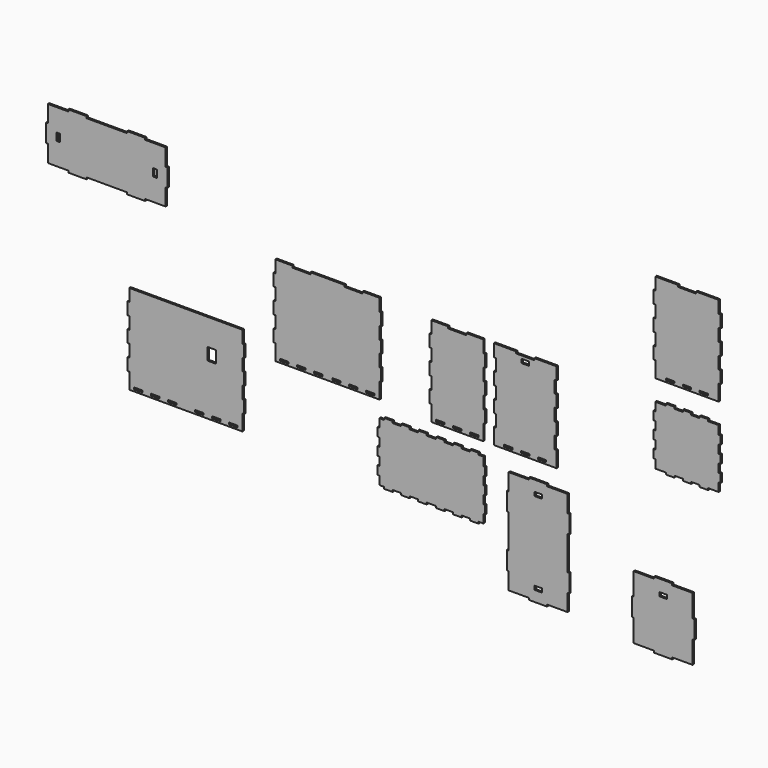
from build123d import *

# Parameters (mm, degrees)
F0_W     = 18.714285
F0_H     = 4
F0_W_2   = 18.714286
F0_W_3   = 18.571429
F0_H_2   = 4.249101
F0_W_4   = 16.5
F0_H_3   = 8.6
F0_W_5   = 16.4
F0_H_4   = 8.4
F0_W_6   = 18.111468
F0_H_5   = 26.731297
F0_W_7   = 40
F0_W_8   = 8.6
F0_H_6   = 16.5
F0_W_9   = 18.57
F0_H_7   = 3.739867
F1_DEPTH = 4


with BuildPart() as f1:
    # F0 (on Front) → F1 (new body)
    with BuildSketch(Plane.XZ):
        Polygon((-304.050553, -138.518051), (-322.764838, -138.518051), (-322.764838, -142.518051), (-333.479124, -142.518051), (-344.19341, -142.518051), (-344.19341, -138.518051), (-362.907695, -138.518051), (-362.907695, -142.518051), (-381.621981, -142.518051), (-381.621981, -138.518051), (-400.336267, -138.518051), (-400.336267, -142.518051), (-419.050553, -142.518051), (-419.050553, -138.518051), (-437.764838, -138.518051), (-437.764838, -142.518051), (-448.479124, -142.405811), (-448.479124, -161.095969), (-452.479124, -161.098391), (-452.479124, -179.669442), (-448.479124, -179.667021), (-448.479124, -198.238072), (-452.479124, -198.240494), (-452.479124, -216.811546), (-448.479124, -216.809124), (-448.479124, -235.380176), (-452.479124, -235.382597), (-452.479124, -253.953649), (-448.479124, -253.951227), (-448.479124, -272.630291), (-437.764838, -272.518051), (-437.764838, -276.518051), (-419.050553, -276.518051), (-419.050553, -272.518051), (-400.336267, -272.518051), (-400.336267, -276.518051), (-381.621981, -276.518051), (-381.621981, -272.518051), (-362.907695, -272.518051), (-362.907695, -276.518051), (-344.19341, -276.518051), (-344.19341, -272.518051), (-333.479124, -272.518051), (-322.764838, -272.518051), (-322.764838, -276.518051), (-304.050553, -276.518051), (-304.050553, -272.518051), (-285.336267, -272.518051), (-285.336267, -276.518051), (-266.621981, -276.518051), (-266.621981, -272.518051), (-247.907695, -272.518051), (-247.907695, -276.518051), (-229.19341, -276.518051), (-229.19341, -272.518051), (-218.479124, -272.630291), (-218.479124, -253.951227), (-214.479124, -253.953649), (-214.479124, -235.382597), (-218.479124, -235.380176), (-218.479124, -216.809124), (-214.479124, -216.811546), (-214.479124, -198.240494), (-218.479124, -198.238072), (-218.479124, -179.667021), (-214.479124, -179.669442), (-214.479124, -161.098391), (-218.479124, -161.095969), (-218.479124, -142.405811), (-229.19341, -142.518051), (-229.19341, -138.518051), (-247.907695, -138.518051), (-247.907695, -142.518051), (-266.621981, -142.518051), (-266.621981, -138.518051), (-285.336267, -138.518051), (-285.336267, -142.518051), (-304.050553, -142.518051), align=None)
        Polygon((-333.640098, 58.339691), (-337.640098, 58.339691), (-337.640098, 31.197433), (-333.640098, 31.197433), (-333.640098, 4.055175), (-337.640098, 4.055175), (-337.640098, -23.087083), (-333.640098, -23.087083), (-333.640098, -50.229341), (-337.640098, -50.229341), (-337.640098, -77.371599), (-333.640098, -77.371599), (-333.640098, -112.518051), (-218.640098, -112.518051), (-218.640098, -77.371599), (-214.640098, -77.371599), (-214.640098, -50.229341), (-218.640098, -50.229341), (-218.640098, -23.087083), (-214.640098, -23.087083), (-214.640098, 4.055175), (-218.640098, 4.055175), (-218.640098, 31.197433), (-214.640098, 31.197433), (-214.640098, 58.339691), (-218.640098, 58.339691), (-218.640098, 85.481949), (-256.140098, 85.481949), (-256.140098, 81.481949), (-296.140098, 81.481949), (-296.140098, 85.481949), (-333.640098, 85.481949), align=None)
        with Locations((-313.407695, -106.518051)):
            Rectangle(F0_W, F0_H, mode=Mode.SUBTRACT)
        with Locations((-275.979124, -106.518051)):
            Rectangle(F0_W_2, F0_H, mode=Mode.SUBTRACT)
        with Locations((-238.550552, -106.518051)):
            Rectangle(F0_W, F0_H, mode=Mode.SUBTRACT)
        Polygon((-195.524022, 85.73105), (-195.524022, 58.339691), (-190.980157, 58.339691), (-190.980157, 31.197433), (-195.524022, 31.197433), (-195.524022, 4.055175), (-190.980157, 4.055175), (-190.980157, -23.087083), (-195.524022, -23.087083), (-195.524022, -50.229341), (-190.980157, -50.229341), (-190.980157, -77.371599), (-195.524022, -77.371599), (-195.524022, -112.518051), (-56.436293, -112.518051), (-56.436293, -77.371599), (-60.980157, -77.371599), (-60.980157, -50.229341), (-56.436293, -50.229341), (-56.436293, -23.087083), (-60.980157, -23.087083), (-60.980157, 4.055175), (-56.436293, 4.055175), (-56.436293, 31.197433), (-60.980157, 31.197433), (-60.980157, 58.339691), (-56.436293, 58.339691), (-56.436293, 85.73105), (-105.980157, 85.73105), (-105.980157, 81.73105), (-145.980157, 81.73105), (-145.980157, 85.73105), align=None)
        with Locations((-163.123015, -106.3935)):
            Rectangle(F0_W_3, F0_H_2, mode=Mode.SUBTRACT)
        with Locations((-125.980157, -106.3935)):
            Rectangle(F0_W_3, F0_H_2, mode=Mode.SUBTRACT)
        with Locations((-88.8373, -106.3935)):
            Rectangle(F0_W_3, F0_H_2, mode=Mode.SUBTRACT)
        with Locations((-125.980157, 71.13105)):
            Rectangle(F0_W_4, F0_H_3, mode=Mode.SUBTRACT)
        Polygon((-117.650108, -154.550055), (-162.650108, -154.550055), (-162.650108, -192.050055), (-166.650108, -192.050055), (-166.650108, -232.050055), (-162.650108, -232.050055), (-162.650108, -269.550055), (-162.650108, -307.050055), (-166.650108, -307.050055), (-166.650108, -347.050055), (-162.650108, -347.050055), (-162.650108, -384.550055), (-117.650108, -384.550055), (-117.650108, -388.550055), (-77.650108, -388.550055), (-77.650108, -384.550055), (-32.650108, -384.550055), (-32.650108, -347.050055), (-28.650108, -347.050055), (-28.650108, -307.050055), (-32.650108, -307.050055), (-32.650108, -269.550055), (-32.650108, -232.050055), (-28.650108, -232.050055), (-28.650108, -192.050055), (-32.650108, -192.050055), (-32.650108, -154.550055), (-77.650108, -154.550055), (-77.650108, -150.550055), (-117.650108, -150.550055), align=None)
        with Locations((-97.650108, -360.816274)):
            Rectangle(F0_W_5, F0_H_4, mode=Mode.SUBTRACT)
        with Locations((-97.650108, -178.283837)):
            Rectangle(F0_W_5, F0_H_4, mode=Mode.SUBTRACT)
        Polygon((-1001.062097, -95.953064), (-1005.062097, -95.953064), (-1005.062097, -123.095322), (-1001.062097, -123.095322), (-1001.062097, -150.23758), (-1005.062097, -150.23758), (-1005.062097, -177.379838), (-1001.062097, -177.379838), (-1001.062097, -204.522096), (-1005.062097, -204.522096), (-1005.062097, -231.664354), (-1001.062097, -231.664354), (-1001.062097, -266.810806), (-751.062097, -266.810806), (-751.062097, -231.664354), (-747.062097, -231.664354), (-747.062097, -204.522096), (-751.062097, -204.522096), (-751.062097, -177.379838), (-747.062097, -177.379838), (-747.062097, -150.23758), (-751.062097, -150.23758), (-751.062097, -123.095322), (-747.062097, -123.095322), (-747.062097, -95.953064), (-751.062097, -95.953064), (-751.062097, -68.810806), (-788.562097, -68.810806), (-788.562097, -72.810806), (-828.562097, -72.810806), (-828.562097, -68.810806), (-886.062097, -68.810806), (-923.562097, -68.810806), (-923.562097, -72.810806), (-963.562097, -72.810806), (-963.562097, -68.810806), (-1001.062097, -68.810806), align=None)
        with Locations((-980.829694, -260.810806)):
            Rectangle(F0_W_2, F0_H, mode=Mode.SUBTRACT)
        with Locations((-943.401123, -260.810806)):
            Rectangle(F0_W_2, F0_H, mode=Mode.SUBTRACT)
        with Locations((-905.972552, -260.810806)):
            Rectangle(F0_W, F0_H, mode=Mode.SUBTRACT)
        with Locations((-846.151642, -260.810806)):
            Rectangle(F0_W_2, F0_H, mode=Mode.SUBTRACT)
        with Locations((-808.723071, -260.810806)):
            Rectangle(F0_W_2, F0_H, mode=Mode.SUBTRACT)
        with Locations((-771.2945, -260.810806)):
            Rectangle(F0_W, F0_H, mode=Mode.SUBTRACT)
        with Locations((-818.821788, -140.670694)):
            Rectangle(F0_W_6, F0_H_5, mode=Mode.SUBTRACT)
        with Locations((-943.562097, -70.810806)):
            Rectangle(F0_W_7, F0_H)
        with Locations((-808.562097, -70.810806)):
            Rectangle(F0_W_7, F0_H)
        Polygon((-525.790815, 91.803489), (-563.290815, 91.803489), (-563.290815, -106.196511), (-448.290815, -106.196511), (-448.290815, -71.050058), (-444.290815, -71.050058), (-444.290815, -43.9078), (-448.290815, -43.9078), (-448.290815, -16.765542), (-444.290815, -16.765542), (-444.290815, 10.376716), (-448.290815, 10.376716), (-448.290815, 37.518974), (-444.290815, 37.518974), (-444.290815, 64.661231), (-448.290815, 64.661231), (-448.290815, 91.803489), (-485.790815, 91.803489), (-485.790815, 87.803489), (-525.790815, 87.803489), align=None)
        with Locations((-543.058413, -100.196511)):
            Rectangle(F0_W, F0_H, mode=Mode.SUBTRACT)
        with Locations((-505.629841, -100.196511)):
            Rectangle(F0_W_2, F0_H, mode=Mode.SUBTRACT)
        with Locations((-468.201269, -100.196511)):
            Rectangle(F0_W, F0_H, mode=Mode.SUBTRACT)
        Polygon((-563.290815, -106.196511), (-563.290815, 91.803489), (-600.790815, 91.803489), (-600.790815, 87.803489), (-640.790815, 87.803489), (-640.790815, 91.803489), (-678.290815, 91.803489), (-678.290815, 64.661231), (-682.290815, 64.661231), (-682.290815, 37.518974), (-678.290815, 37.518974), (-678.290815, 10.376716), (-682.290815, 10.376716), (-682.290815, -16.765542), (-678.290815, -16.765542), (-678.290815, -43.9078), (-682.290815, -43.9078), (-682.290815, -71.050058), (-678.290815, -71.050058), (-678.290815, -106.196511), align=None)
        with Locations((-658.38036, -100.196511)):
            Rectangle(F0_W, F0_H, mode=Mode.SUBTRACT)
        with Locations((-620.951789, -100.196511)):
            Rectangle(F0_W_2, F0_H, mode=Mode.SUBTRACT)
        with Locations((-583.523217, -100.196511)):
            Rectangle(F0_W, F0_H, mode=Mode.SUBTRACT)
        Polygon((-1005.96415, 230.687856), (-1050.96415, 230.687856), (-1095.96415, 230.687856), (-1095.96415, 234.687856), (-1135.96415, 234.687856), (-1135.96415, 230.687856), (-1180.96415, 230.687856), (-1180.96415, 193.187856), (-1184.96415, 193.187856), (-1184.96415, 153.187856), (-1180.96415, 153.187856), (-1180.96415, 115.687856), (-1135.96415, 115.687856), (-1135.96415, 111.687856), (-1095.96415, 111.687856), (-1095.96415, 115.687856), (-1050.96415, 115.687856), (-1005.96415, 115.687856), (-1005.96415, 111.687856), (-965.96415, 111.687856), (-965.96415, 115.687856), (-920.96415, 115.687856), (-920.96415, 153.187856), (-916.96415, 153.187856), (-916.96415, 193.187856), (-920.96415, 193.187856), (-920.96415, 230.687856), (-965.96415, 230.687856), (-965.96415, 234.687856), (-1005.96415, 234.687856), align=None)
        with Locations((-1157.998936, 173.187856)):
            Rectangle(F0_W_8, F0_H_6, mode=Mode.SUBTRACT)
        with Locations((-943.929364, 173.187856)):
            Rectangle(F0_W_8, F0_H_6, mode=Mode.SUBTRACT)
        Polygon((158.790584, -257.357287), (113.790584, -257.357287), (113.790584, -307.357287), (109.790584, -307.357287), (109.790584, -347.357287), (113.790584, -347.357287), (113.790584, -397.357287), (158.790584, -397.357287), (158.790584, -401.357287), (198.790584, -401.357287), (198.790584, -397.357287), (243.790584, -397.357287), (243.790584, -347.357287), (247.790584, -347.357287), (247.790584, -307.357287), (243.790584, -307.357287), (243.790584, -257.357287), (198.790584, -257.357287), (198.790584, -253.357287), (158.790584, -253.357287), align=None)
        with Locations((178.790584, -283.591069)):
            Rectangle(F0_W_5, F0_H_4, mode=Mode.SUBTRACT)
        Polygon((161.540467, 304.355223), (157.540467, 304.355223), (157.540467, 277.212965), (161.540467, 277.212965), (161.540467, 250.070707), (157.540467, 250.070707), (157.540467, 222.928449), (161.540467, 222.928449), (161.540467, 195.786191), (157.540467, 195.786191), (157.540467, 168.643933), (161.540467, 168.643933), (161.540467, 133.497481), (301.540467, 133.497481), (301.540467, 168.643933), (305.540467, 168.643933), (305.540467, 195.786191), (301.540467, 195.786191), (301.540467, 222.928449), (305.540467, 222.928449), (305.540467, 250.070707), (301.540467, 250.070707), (301.540467, 277.212965), (305.540467, 277.212965), (305.540467, 304.355223), (301.540467, 304.355223), (301.540467, 331.497481), (251.540467, 331.497481), (251.540467, 327.497481), (211.540467, 327.497481), (211.540467, 331.497481), (161.540467, 331.497481), align=None)
        with Locations((194.400467, 139.367414)):
            Rectangle(F0_W_9, F0_H_7, mode=Mode.SUBTRACT)
        with Locations((231.540467, 139.367414)):
            Rectangle(F0_W_9, F0_H_7, mode=Mode.SUBTRACT)
        with Locations((268.680467, 139.367414)):
            Rectangle(F0_W_9, F0_H_7, mode=Mode.SUBTRACT)
        Polygon((278.326182, 91.7702), (259.611896, 91.7702), (259.611896, 87.7702), (240.89761, 87.7702), (240.89761, 91.7702), (231.540467, 91.7702), (231.540467, -46.2298), (240.89761, -46.2298), (240.89761, -42.2298), (259.611896, -42.2298), (259.611896, -46.2298), (278.326182, -46.2298), (278.326182, -42.2298), (301.540467, -42.34204), (301.540467, -23.662976), (305.540467, -23.665397), (305.540467, -5.094346), (301.540467, -5.091924), (301.540467, 13.479128), (305.540467, 13.476706), (305.540467, 32.047758), (301.540467, 32.050179), (301.540467, 50.621231), (305.540467, 50.618809), (305.540467, 69.189861), (301.540467, 69.192282), (301.540467, 87.882441), (278.326182, 87.7702), align=None)
        Polygon((231.540467, -46.2298), (231.540467, 91.7702), (222.183324, 91.7702), (222.183324, 87.7702), (203.469039, 87.7702), (203.469039, 91.7702), (184.754753, 91.7702), (184.754753, 87.7702), (161.540467, 87.882441), (161.540467, 69.192282), (157.540467, 69.189861), (157.540467, 50.618809), (161.540467, 50.621231), (161.540467, 32.050179), (157.540467, 32.047758), (157.540467, 13.476706), (161.540467, 13.479128), (161.540467, -5.091924), (157.540467, -5.094346), (157.540467, -23.665397), (161.540467, -23.662976), (161.540467, -42.34204), (184.754753, -42.2298), (184.754753, -46.2298), (203.469039, -46.2298), (203.469039, -42.2298), (222.183324, -42.2298), (222.183324, -46.2298), align=None)
    extrude(amount=F1_DEPTH)


solid = f1.part
